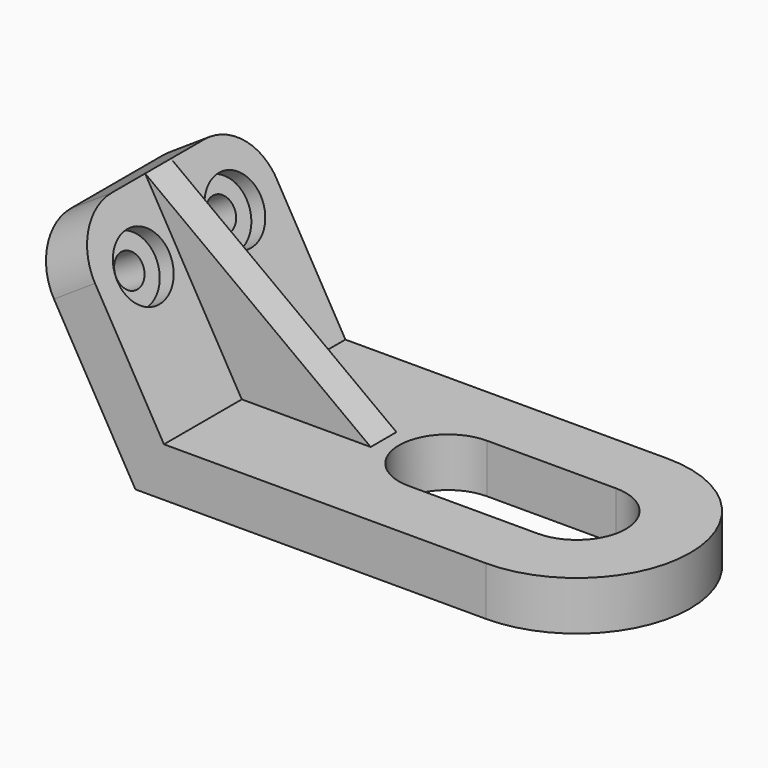
from build123d import *

# Parameters (mm, degrees)
F1_DEPTH  = 22.352
F2_DEPTH  = 3.175
F3_R      = 10.922
F5_DEPTH  = 9.652
F6_DEPTH  = 9.652
F8_R      = 3.175
F9_DEPTH  = 22.352
F8_R_2    = 6.35
F10_DEPTH = 3.175


with BuildPart() as f1:
    # F0 (on Front) → F1 (new body, symmetric)
    with BuildSketch(Plane.XZ):
        Polygon((-8.0358399709, 0), (-33.4358399709, 0), (-52.4858399709, 32.9955678842), (-60.5815056276, 27.632467684), (-39.0553081737, -9.652), (30.0641600291, -9.652), (30.0641600291, 0), align=None)
    extrude(amount=F1_DEPTH, both=True)

    # F0 (on Front) → F2 (join, symmetric)
    with BuildSketch(Plane.XZ):
        Polygon((-52.4858399709, 32.9955678842), (-33.4358399709, 0), (-8.0358399709, 0), align=None)
    extrude(amount=F2_DEPTH, both=True)

    # F3
    f3_edges = [f1.edges().sort_by_distance(p)[0] for p in [
        (-56.533673, -22.352, 30.314018),
        (-56.533673, 22.352, 30.314018),
    ]]
    fillet(f3_edges, radius=F3_R)

    # F4 (on face) → F5 (join)
    with BuildSketch(Plane.XY):
        with BuildLine():
            Line((30.0641600291, -9.652), (30.0641600291, -22.352))
            ThreePointArc((30.0641600291, -22.352), (52.4161600291, 0), (30.0641600291, 22.352))
            Line((30.0641600291, 22.352), (30.0641600291, 9.652))
            ThreePointArc((30.0641600291, 9.652), (39.7161600291, 0), (30.0641600291, -9.652))
        make_face()
    extrude(amount=-F5_DEPTH)

    # F4 (on face) → F6 (cut)
    with BuildSketch(Plane.XY):
        with BuildLine():
            Line((4.6641600291, -9.652), (30.0641600291, -9.652))
            Line((30.0641600291, -9.652), (30.0641600291, 0))
            Line((30.0641600291, 0), (30.0641600291, 9.652))
            Line((30.0641600291, 9.652), (4.6641600291, 9.652))
            ThreePointArc((4.6641600291, 9.652), (-4.9878399709, 0), (4.6641600291, -9.652))
        make_face()
    extrude(amount=-F6_DEPTH, mode=Mode.SUBTRACT)

    # F8 (on face) → F9 (cut)
    with BuildSketch(Plane(origin=(-25.0768799782, 0, -14.4781434058), x_dir=(0, 1, 0), z_dir=(0.8660254038, 0, 0.5))):
        with Locations((-11.417399453, 42.3558945687)):
            Circle(F8_R)
        with Locations((11.4397590045, 42.816884833)):
            Circle(F8_R)
    extrude(amount=-F9_DEPTH, mode=Mode.SUBTRACT)

    # F8 (on face) → F10 (cut)
    with BuildSketch(Plane(origin=(-25.0768799782, 0, -14.4781434058), x_dir=(0, 1, 0), z_dir=(0.8660254038, 0, 0.5))):
        with Locations((-11.417399453, 42.3558945687)):
            Circle(F8_R_2)
        with Locations((-11.417399453, 42.3558945687)):
            Circle(F8_R, mode=Mode.SUBTRACT)
        with Locations((11.4397590045, 42.816884833)):
            Circle(F8_R_2)
        with Locations((11.4397590045, 42.816884833)):
            Circle(F8_R, mode=Mode.SUBTRACT)
    extrude(amount=-F10_DEPTH, mode=Mode.SUBTRACT)


solid = f1.part
